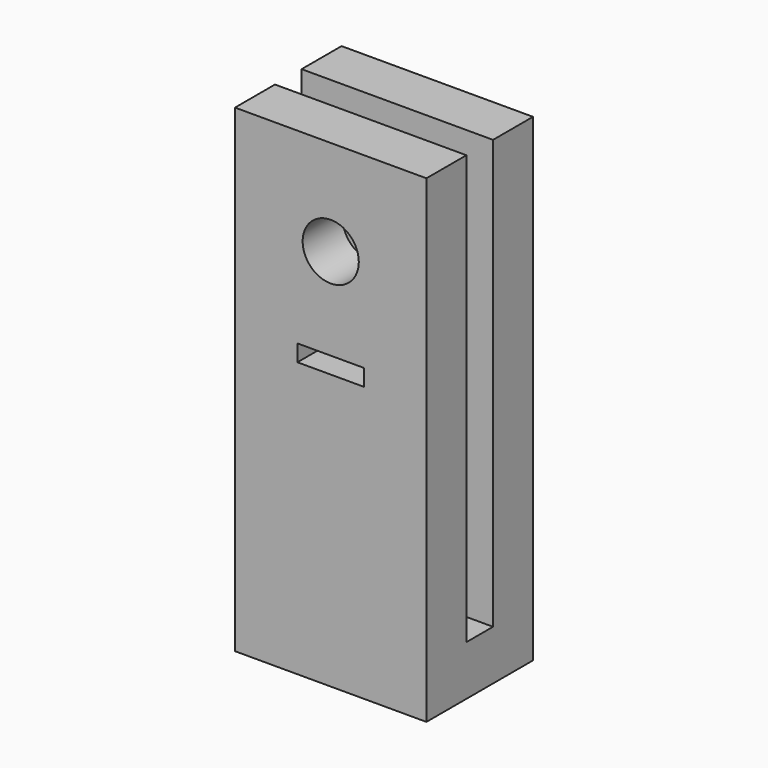
from build123d import *

# Parameters (mm, degrees)
CYLINDER001_R     = 3.3725
CYLINDER001_DEPTH = 30
BOX008_W          = 23
BOX008_H          = 16
BOX008_DEPTH      = 6
BOX009_W          = 23
BOX009_H          = 57.5
BOX009_DEPTH      = 6
SKETCH_W          = 23
SKETCH_H          = 51.5
SKETCH_W_2        = 8
SKETCH_H_2        = 2
EXTRUDE_DEPTH     = 6


with BuildPart() as cylinder001:
    # Cylinder001 → Cylinder001 (new body)
    with BuildSketch(Plane.XZ.offset(-30)):
        Circle(CYLINDER001_R)
    extrude(amount=CYLINDER001_DEPTH)


with BuildPart() as cube008:
    # Box008 → Box008 (new body)
    with BuildSketch(Plane(origin=(-11.5, 7.25, -46), x_dir=(1, 0, 0), z_dir=(0, 0, 1))):
        with Locations((11.5, 8)):
            Rectangle(BOX008_W, BOX008_H)
    extrude(amount=BOX008_DEPTH)


with BuildPart() as cube009:
    # Box009 → Box009 (new body)
    with BuildSketch(Plane(origin=(-11.5, 17.25, 11.5), x_dir=(1, 0, 0), z_dir=(0, 1, 0))):
        with Locations((11.5, 28.75)):
            Rectangle(BOX009_W, BOX009_H)
    extrude(amount=BOX009_DEPTH)


with BuildPart() as mountplate:
    # Sketch → Extrude (new body)
    with BuildSketch(Plane(origin=(0, 0, 0), x_dir=(-1, 0, 0), z_dir=(0, 1, 0))):
        with Locations((0, -14.25)):
            Rectangle(SKETCH_W, SKETCH_H)
        with Locations((0, -12)):
            Rectangle(SKETCH_W_2, SKETCH_H_2, mode=Mode.SUBTRACT)
    extrude(amount=EXTRUDE_DEPTH)


with BuildPart() as mountplate_1:
    # Extrude placement: moved
    add(mountplate.part.moved(Location((0, 7.25, 0))))

    # Fusion003: union Cube008, Cube009
    add(cube008.part)
    add(cube009.part)

    # Cut002: cut Cylinder001
    add(cylinder001.part, mode=Mode.SUBTRACT)


solid = mountplate_1.part
